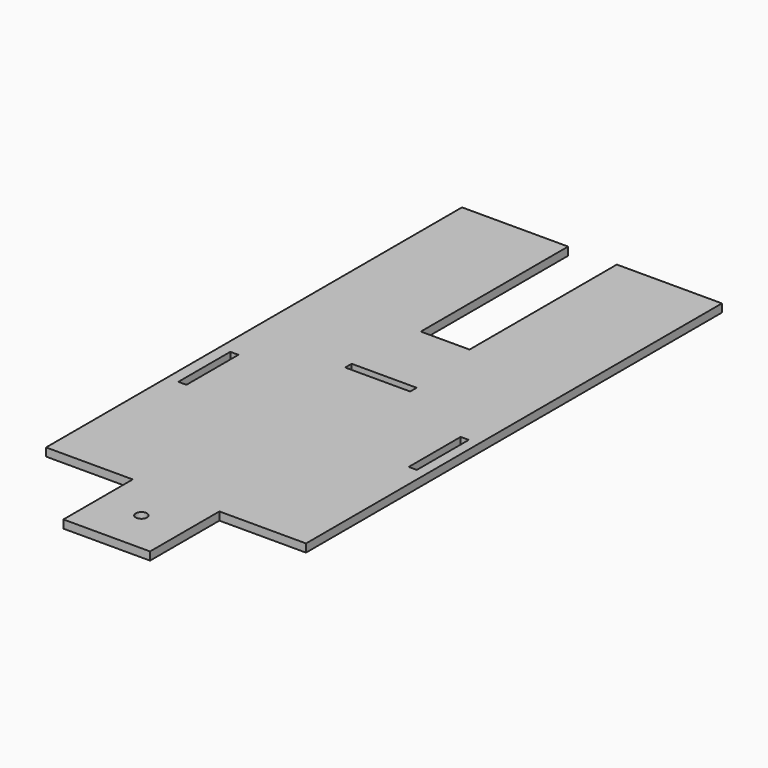
from build123d import *

# Parameters (mm, degrees)
F0_W     = 19.05
F0_H     = 152.4
F0_W_2   = 203.2
F0_H_2   = 203.2
F0_R     = 13.335
F1_DEPTH = 19.05


with BuildPart() as f1:
    # F0 (on Top) → F1 (new body)
    with BuildSketch(Plane.XY):
        Polygon((-305.997565, 1118.248048), (-305.997565, -100.951952), (-102.797565, -100.951952), (100.402435, -100.951952), (303.602435, -100.951952), (303.602435, 1118.248048), (57.15, 1118.248048), (57.15, 686.448048), (-57.15, 686.448048), (-57.15, 1118.248048), align=None)
        with Locations((-269.875, 329.650346)):
            Rectangle(F0_W, F0_H, mode=Mode.SUBTRACT)
        with Locations((270.383059, 329.650346)):
            Rectangle(F0_W, F0_H, mode=Mode.SUBTRACT)
        Polygon((76.2, 507.704346), (76.2, 498.179346), (76.2, 488.654346), (-76.2, 488.654346), (-76.2, 498.179346), (-76.2, 507.704346), align=None, mode=Mode.SUBTRACT)
        with Locations((-1.197565, -202.551952)):
            Rectangle(F0_W_2, F0_H_2)
        with Locations((-1.197565, -202.551952)):
            Circle(F0_R, mode=Mode.SUBTRACT)
    extrude(amount=F1_DEPTH)


solid = f1.part
